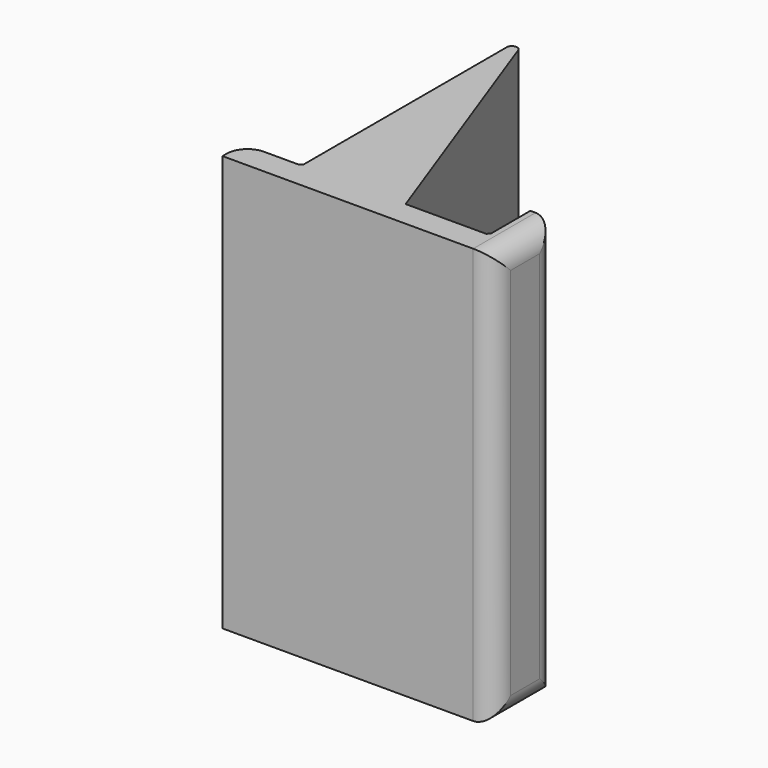
from build123d import *

# Parameters (mm, degrees)
F1_DEPTH = 50.8
F2_R     = 1.27
F3_R     = 5.08
F4_SIZE  = 0.635
F5_R     = 5.08


with BuildPart() as f1:
    # F0 (on Top) → F1 (new body, symmetric)
    with BuildSketch(Plane.XY):
        Polygon((25.423321, 6.35), (0, 76.2), (0, 6.35), (-14.25222, 6.35), (-14.25222, 0), (0, 0), (52.093321, 0), (52.093321, 19.05), (45.743321, 19.05), (45.743321, 6.35), align=None)
    extrude(amount=F1_DEPTH, both=True)

    # F2
    f2_edges = [f1.edges().sort_by_distance(p)[0] for p in [
        (0, 76.2, 0),
    ]]
    fillet(f2_edges, radius=F2_R)

    # F3
    f3_edges = [f1.edges().sort_by_distance(p)[0] for p in [
        (52.093321, 0, 0),
        (52.093321, 9.525, -50.8),
        (52.093321, 19.05, 0),
        (52.093321, 9.525, 50.8),
    ]]
    fillet(f3_edges, radius=F3_R)

    # F4
    f4_edges = [f1.edges().sort_by_distance(p)[0] for p in [
        (45.743321, 6.35, 0),
        (0, 6.35, 0),
    ]]
    chamfer(f4_edges, length=F4_SIZE)

    # F5
    f5_edges = [f1.edges().sort_by_distance(p)[0] for p in [
        (-14.25222, 6.35, 0),
    ]]
    fillet(f5_edges, radius=F5_R)


solid = f1.part
